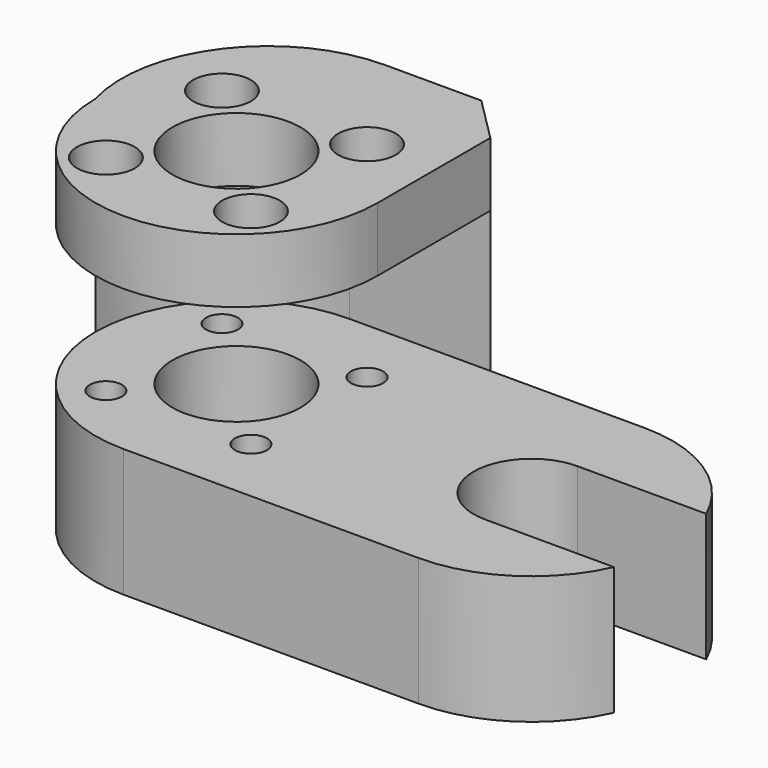
from build123d import *

# Parameters (mm, degrees)
SKETCH_R      = 5
SKETCH_R_2    = 1.25
PAD_DEPTH     = 10
PAD001_DEPTH  = 26
SKETCH003_R   = 2.25
SKETCH003_R_2 = 5
PAD002_DEPTH  = 5


with BuildPart() as part:
    # Sketch → Pad (new body)
    with BuildSketch(Plane.XY):
        with BuildLine():
            Line((0, 11), (23, 11))
            ThreePointArc((33.0374299499, 4.5), (28.9791303716, 9.2330926563), (23, 11))
            Line((23, 4.5), (33.0374299499, 4.5))
            ThreePointArc((23, 4.5), (18.5, 0), (23, -4.5))
            Line((23, -4.5), (33.0374299499, -4.5))
            ThreePointArc((23, -11), (28.9791303716, -9.2330926563), (33.0374299499, -4.5))
            Line((23, -11), (0, -11))
            ThreePointArc((-11, 0), (-7.7781745931, -7.7781745931), (0, -11))
            ThreePointArc((0, 11), (-7.7781745931, 7.7781745931), (-11, 0))
        make_face()
        Circle(SKETCH_R, mode=Mode.SUBTRACT)
        with Locations((-5.6568608175, 5.6568476815)):
            Circle(SKETCH_R_2, mode=Mode.SUBTRACT)
        with Locations((5.6568608175, 5.6568476815)):
            Circle(SKETCH_R_2, mode=Mode.SUBTRACT)
        with Locations((5.6568608175, -5.6568476815)):
            Circle(SKETCH_R_2, mode=Mode.SUBTRACT)
        with Locations((-5.6568345454, -5.6568739536)):
            Circle(SKETCH_R_2, mode=Mode.SUBTRACT)
    extrude(amount=PAD_DEPTH)

    # Sketch002 (on Face16 of Pad) → Pad001 (join)
    with BuildSketch(Plane.XY):
        with BuildLine():
            ThreePointArc((0, 11), (-7.7781745931, 7.7781745931), (-11, 0))
            ThreePointArc((0, 14.5), (-9.1001373616, 9.9811386881), (-11, 0))
            Line((0, 14.5), (7.5, 14.5))
            Line((7.5, 14.5), (11, 11))
            Line((11, 11), (0, 11))
        make_face()
    extrude(amount=PAD001_DEPTH)

    # Sketch003 (on Face11 of Pad001) → Pad002 (join)
    with BuildSketch(Plane.XY.offset(26)):
        with BuildLine():
            Line((0, 11), (11, 11))
            Line((11, 11), (11, 0))
            ThreePointArc((0, 11), (-7.7781745931, -7.7781745931), (11, 0))
        make_face()
        with Locations((-5.6568542391, 5.6568542599)):
            Circle(SKETCH003_R, mode=Mode.SUBTRACT)
        with Locations((5.6568542391, 5.6568542599)):
            Circle(SKETCH003_R, mode=Mode.SUBTRACT)
        with Locations((5.6568542391, -5.6568542599)):
            Circle(SKETCH003_R, mode=Mode.SUBTRACT)
        with Locations((-5.6568542806, -5.6568542184)):
            Circle(SKETCH003_R, mode=Mode.SUBTRACT)
        Circle(SKETCH003_R_2, mode=Mode.SUBTRACT)
    extrude(amount=-PAD002_DEPTH)


solid = part.part
